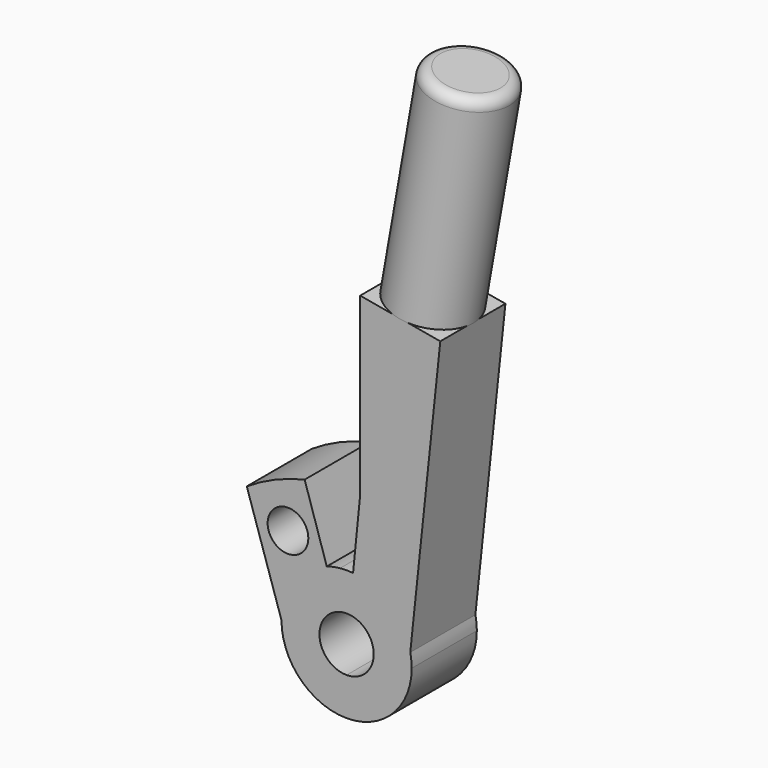
from build123d import *

# Parameters (mm, degrees)
F0_R     = 2.38125
F1_DEPTH = 9.525
F2_R     = 4.8514
F3_DEPTH = 25.4
F4_R     = 1.27
F5_DEPTH = 9.652


with BuildPart() as f1:
    # F0 (on Front) → F1 (new body)
    with BuildSketch(Plane.XZ):
        with BuildLine():
            Line((1.5875, 15.875), (0.7582183389, 7.5821833894))
            ThreePointArc((0.7582183389, 7.5821833894), (5.0844573747, 5.6756227152), (7.4534847176, 1.584287084))
            Line((7.4534847176, 1.584287084), (10.9677938474, 34.7753054223))
            Line((10.9677938474, 34.7753054223), (1.5875, 36.4293043146))
            Line((1.5875, 36.4293043146), (1.5875, 15.875))
        make_face()
        with BuildLine():
            ThreePointArc((0.3159243079, 3.1592430789), (2.354111794, 2.1304418934), (3.175, 0))
            ThreePointArc((3.175, 0), (2.2450640303, -2.2450640303), (0, -3.175))
            ThreePointArc((0, -3.175), (-3.1371548684, -0.4887579481), (-0.965864174, 3.0245216808))
            Line((-0.965864174, 3.0245216808), (-2.3180740176, 7.2588520338))
            ThreePointArc((-2.3180740176, 7.2588520338), (-6.1533780972, 4.4944786119), (-7.62, 0))
            ThreePointArc((-7.62, 0), (0, -7.62), (7.62, 0))
            ThreePointArc((7.62, 0), (7.5782568427, 0.7965068901), (7.4534847176, 1.584287084))
            ThreePointArc((7.4534847176, 1.584287084), (5.0844573747, 5.6756227152), (0.7582183389, 7.5821833894))
            Line((0.7582183389, 7.5821833894), (0.3159243079, 3.1592430789))
        make_face()
        with BuildLine():
            ThreePointArc((-0.3159243079, 3.1592430789), (0, 3.175), (0.3159243079, 3.1592430789))
            Line((0.3159243079, 3.1592430789), (0.7582183389, 7.5821833894))
            ThreePointArc((0.7582183389, 7.5821833894), (0, 7.62), (-0.7582183389, 7.5821833894))
            Line((-0.7582183389, 7.5821833894), (-0.3159243079, 3.1592430789))
        make_face()
        with BuildLine():
            ThreePointArc((-0.965864174, 3.0245216808), (-0.6444244656, 3.1089133324), (-0.3159243079, 3.1592430789))
            Line((-0.3159243079, 3.1592430789), (-0.7582183389, 7.5821833894))
            ThreePointArc((-0.7582183389, 7.5821833894), (-1.5466187175, 7.4613919977), (-2.3180740176, 7.2588520338))
            Line((-2.3180740176, 7.2588520338), (-0.965864174, 3.0245216808))
        make_face()
        with BuildLine():
            ThreePointArc((-7.62, 0), (-6.1533780972, 4.4944786119), (-2.3180740176, 7.2588520338))
            Line((-2.3180740176, 7.2588520338), (-4.9063479519, 15.3638121726))
            ThreePointArc((-4.9063479519, 15.3638121726), (-8.4191710316, 14.2078233352), (-11.6804510943, 12.4641810168))
            Line((-11.6804510943, 12.4641810168), (-7.62, 0))
        make_face()
        with Locations((-6.8576899833, 9.4598067682)):
            Circle(F0_R, mode=Mode.SUBTRACT)
    extrude(amount=F1_DEPTH)

    # F2 (on face) → F3 (join)
    with BuildSketch(Plane(origin=(6.2776469237, 0, 35.6023048685), x_dir=(0.984807753, 0, -0.1736481777), z_dir=(0.1736481777, 0, 0.984807753))):
        with Locations((0, -4.7625)):
            Circle(F2_R)
    extrude(amount=F3_DEPTH)

    # F4
    f4_edges = [f1.edges().sort_by_distance(p)[0] for p in [
        (5.910614, -4.7625, 61.458859),
    ]]
    fillet(f4_edges, radius=F4_R)

    # F0 (on Front) → F5 (cut)
    with BuildSketch(Plane.XZ):
        with Locations((-6.8576899833, 9.4598067682)):
            Circle(F0_R)
    extrude(amount=-F5_DEPTH, mode=Mode.SUBTRACT)


solid = f1.part
